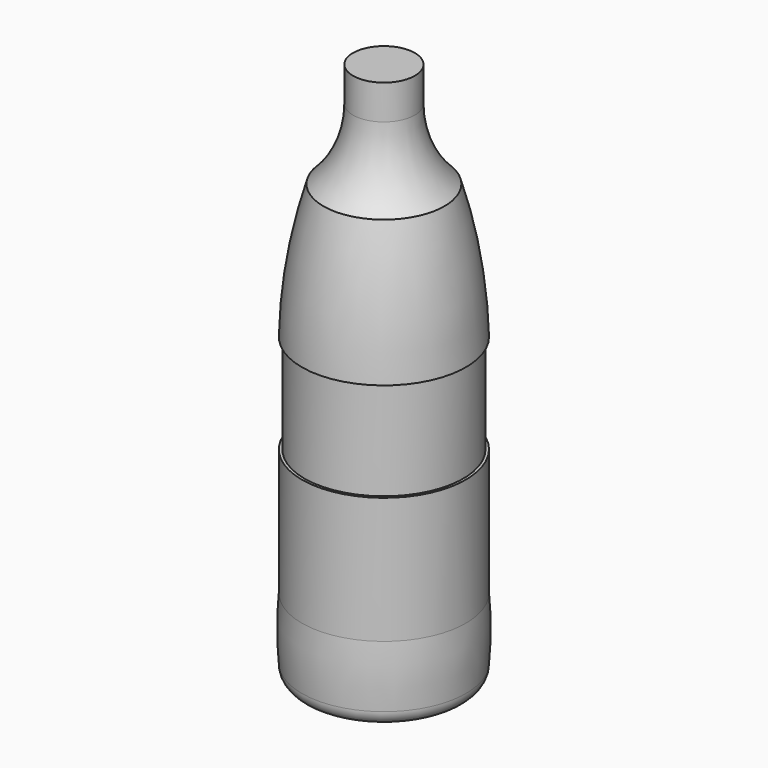
from build123d import *


with BuildPart() as f1:
    # F0 (on Front) → F1 (revolve)
    with BuildSketch(Plane.XZ):
        with BuildLine():
            Line((91.066448, -3740.295589), (91.066448, 1657.204411))
            Line((91.066448, 1657.204411), (-226.433552, 1657.204411))
            Line((-226.433552, 1657.204411), (-226.433552, 1301.604411))
            ThreePointArc((-226.433552, 1301.604411), (-305.443713, 908.786335), (-530.1856, 577.063967))
            ThreePointArc((-530.1856, 577.063967), (-688.76475, -106.787099), (-751.555367, -805.970169))
            Line((-751.555367, -805.970169), (-723.615367, -805.970169))
            Line((-723.615367, -805.970169), (-723.615367, -1821.970169))
            Line((-723.615367, -1821.970169), (-751.555367, -1821.970169))
            Line((-751.555367, -1821.970169), (-751.555367, -3119.402169))
            ThreePointArc((-751.555367, -3119.402169), (-766.147155, -3436.902169), (-751.555367, -3754.402169))
            ThreePointArc((-751.555367, -3754.402169), (-672.203552, -3888.154637), (-516.782104, -3882.622314))
            ThreePointArc((-516.782104, -3882.622314), (-231.556111, -3731.602382), (91.066448, -3740.295589))
        make_face()
    revolve(axis=Axis((91.066448, 0, -1041.545589), (0, 0, -1)))


solid = f1.part
